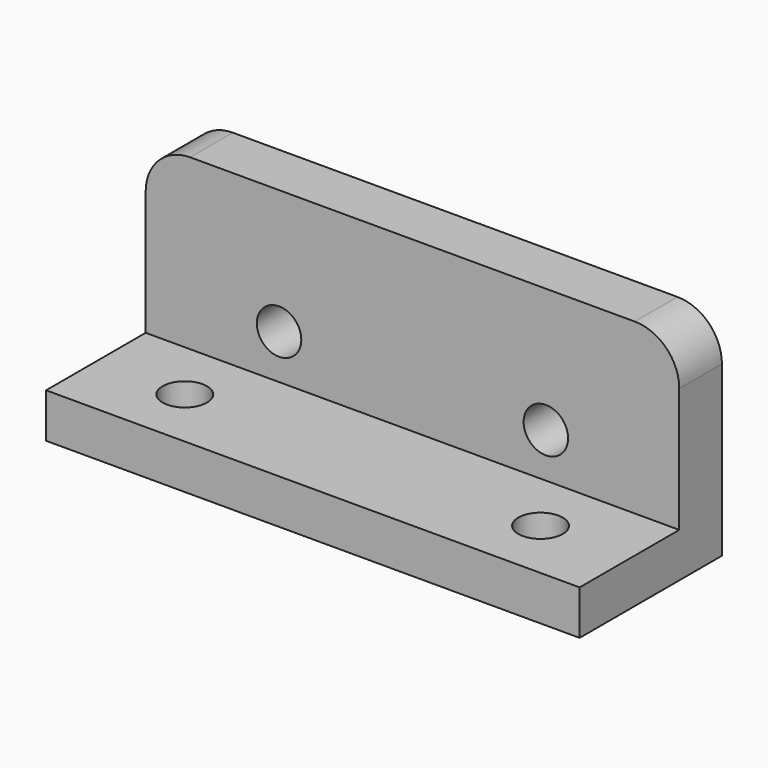
from build123d import *

# Parameters (mm, degrees)
F0_W     = 60
F0_H     = 19
F0_R     = 2.5
F1_DEPTH = 6
F0_H_2   = 5
F2_DEPTH = 20
F4_D     = 5
F5_R     = 5


with BuildPart() as f1:
    # F0 (on Front) → F1 (new body)
    with BuildSketch(Plane.XZ):
        with Locations((0, 2.5)):
            Rectangle(F0_W, F0_H)
        with Locations((-15, -2)):
            Circle(F0_R, mode=Mode.SUBTRACT)
        with Locations((15, -2)):
            Circle(F0_R, mode=Mode.SUBTRACT)
    extrude(amount=F1_DEPTH)

    # F0 (on Front) → F2 (join)
    with BuildSketch(Plane.XZ):
        with Locations((0, -9.5)):
            Rectangle(F0_W, F0_H_2)
    extrude(amount=F2_DEPTH)

    # F4 (through all)
    with Locations(Plane.XY.offset(-7)):
        with Locations((-20, -13), (20, -13)):
            Hole(F4_D / 2)

    # F5
    f5_edges = [f1.edges().sort_by_distance(p)[0] for p in [
        (-30, -3, 12),
        (30, -3, 12),
    ]]
    fillet(f5_edges, radius=F5_R)


solid = f1.part
